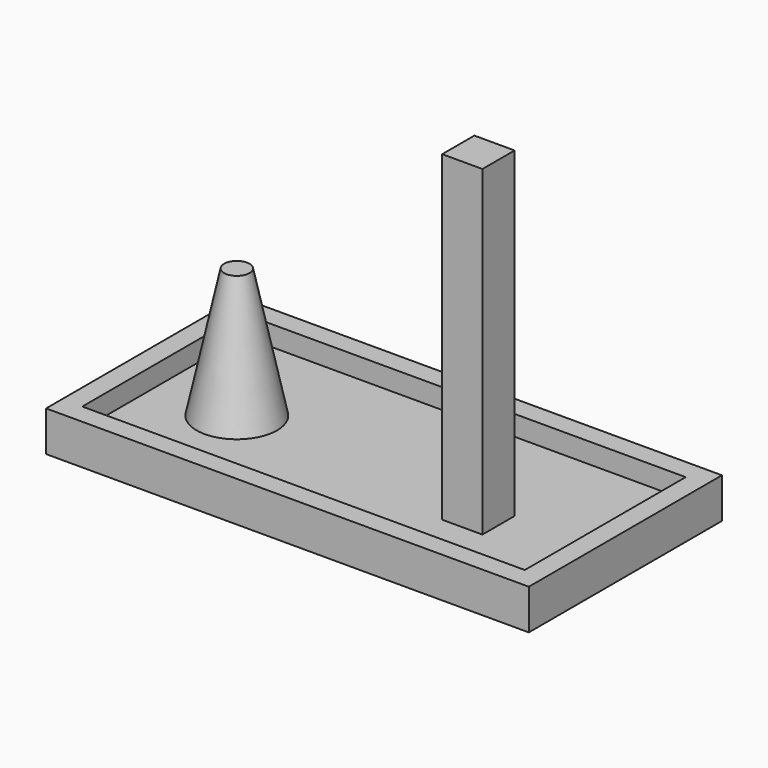
from build123d import *

# Parameters (mm, degrees)
F0_W     = 60
F0_H     = 30
F1_DEPTH = 5
F2_T     = -2.5
F3_R     = 5
F4_DEPTH = 16.1
F4_TAPER = 12
F7_W     = 5
F7_H     = 5
F8_DEPTH = 40


with BuildPart() as f1:
    # F0 (on Top) → F1 (new body)
    with BuildSketch(Plane.XY):
        with Locations((3.3342742734, 4.7416886237)):
            Rectangle(F0_W, F0_H)
    extrude(amount=F1_DEPTH)

    # F2
    f2_openings = [f1.faces().sort_by_distance(p)[0] for p in [
        (3.334274, 4.741689, 5),
    ]]
    offset(amount=F2_T, openings=f2_openings)

    # F7 (on face) → F8 (join)
    with BuildSketch(Plane.XY.offset(2.5)):
        with Locations((17.4725097045, 1.7358051971)):
            Rectangle(F7_W, F7_H)
    extrude(amount=F8_DEPTH)


with BuildPart() as f4:
    # F3 (on Top) → F4 (new body)
    with BuildSketch(Plane.XY):
        with Locations((22.6275715977, 1.1836937629)):
            Circle(F3_R)
    extrude(amount=F4_DEPTH, taper=F4_TAPER)


with BuildPart() as f4_1:
    # F5: moved
    add(f4.part.moved(Location((-37, 2.7, 5.7))))


with BuildPart() as f4_2:
    # F6: moved
    add(f4_1.part.moved(Location((0.1, 0, -3.2))))


solid = Compound([f1.part, f4_2.part])
